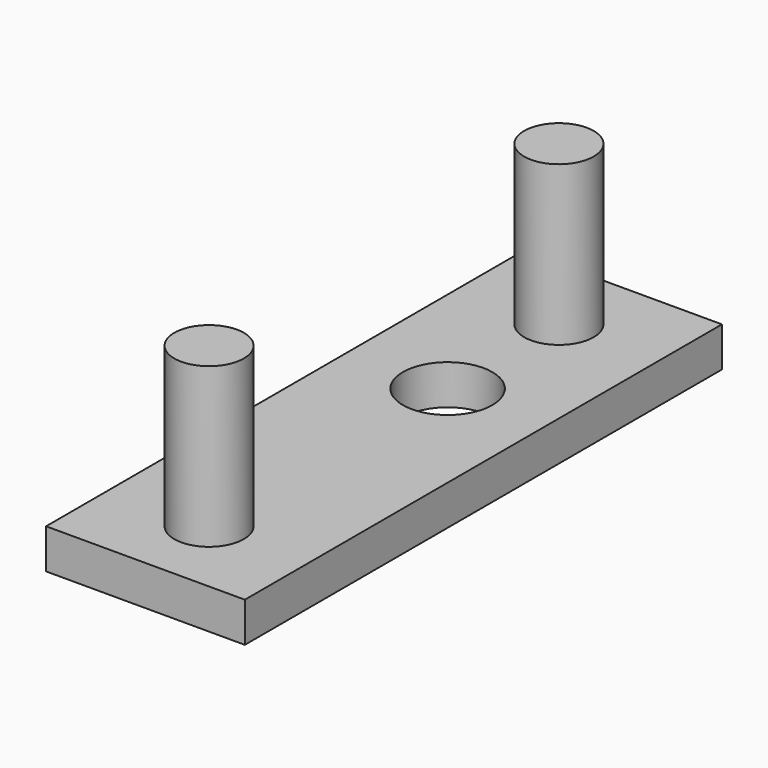
from build123d import *

# Parameters (mm, degrees)
F0_R     = 1.75
F1_DEPTH = 10
F0_W     = 10
F0_H     = 30
F0_R_2   = 2.25
F2_DEPTH = 2


with BuildPart() as f1:
    # F0 (on Top) → F1 (new body)
    with BuildSketch(Plane.XY):
        with Locations((0, 11)):
            Circle(F0_R)
        with Locations((0, -11)):
            Circle(F0_R)
    extrude(amount=F1_DEPTH)

    # F0 (on Top) → F2 (join)
    with BuildSketch(Plane.XY):
        Rectangle(F0_W, F0_H)
        with Locations((0, -11)):
            Circle(F0_R, mode=Mode.SUBTRACT)
        with Locations((0, 4)):
            Circle(F0_R_2, mode=Mode.SUBTRACT)
        with Locations((0, 11)):
            Circle(F0_R, mode=Mode.SUBTRACT)
    extrude(amount=F2_DEPTH)


solid = f1.part
